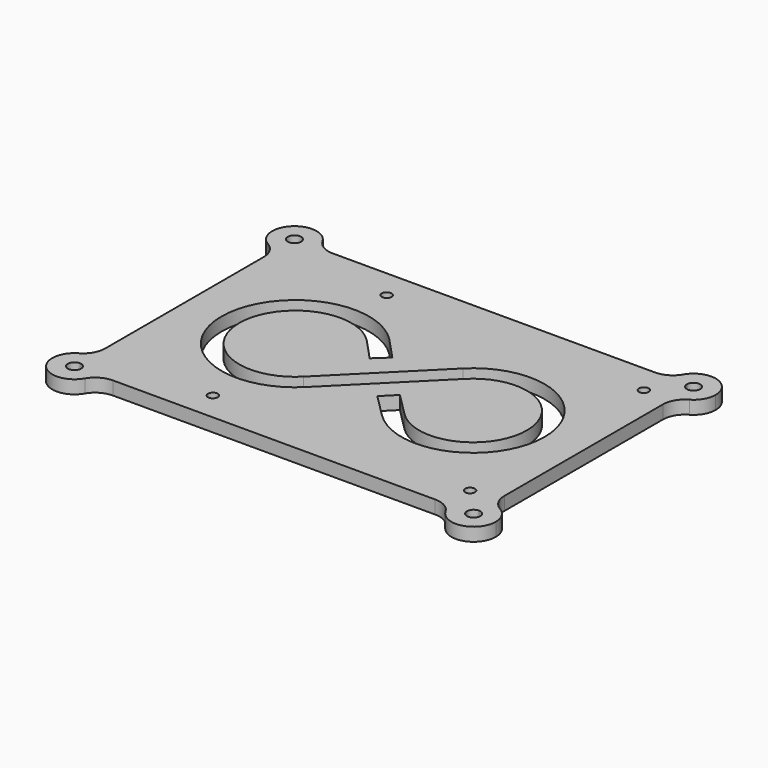
from build123d import *

# Parameters (mm, degrees)
F1_DEPTH = 3
F2_R     = 5
F4_D     = 2.2


with BuildPart() as f1:
    # F0 (on Top) → F1 (new body)
    with BuildSketch(Plane.XY):
        with BuildLine():
            ThreePointArc((-45, -26), (-48.5355339059, -34.5355339059), (-40, -31))
            Line((-40, -31), (-43.5, -31))
            ThreePointArc((-43.5, -31), (-46.0606601718, -32.0606601718), (-45, -29.5))
            Line((-45, -29.5), (-45, -26))
        make_face()
        with BuildLine():
            ThreePointArc((-45, -26), (-41.4644660941, -27.4644660941), (-40, -31))
            Line((-40, -31), (40, -31))
            ThreePointArc((40, -31), (41.4644660941, -27.4644660941), (45, -26))
            Line((45, -26), (45, 26))
            ThreePointArc((45, 26), (41.4644660941, 27.4644660941), (40, 31))
            Line((40, 31), (-40, 31))
            ThreePointArc((-40, 31), (-41.4644660941, 27.4644660941), (-45, 26))
            Line((-45, 26), (-45, -26))
        make_face()
        with BuildLine():
            Line((-11.0606601718, -8.9393398282), (8.9393398282, 11.0606601718))
            ThreePointArc((8.9393398282, 11.0606601718), (36.4956890143, -0.3535533906), (8.9393398282, -11.767766953))
            Line((8.9393398282, -11.767766953), (3.7625631329, -6.5909902577))
            Line((3.7625631329, -6.5909902577), (5.1767766953, -5.1767766953))
            Line((5.1767766953, -5.1767766953), (6.5909902577, -3.7625631329))
            Line((6.5909902577, -3.7625631329), (11.767766953, -8.9393398282))
            ThreePointArc((11.767766953, -8.9393398282), (32.4956890143, -0.3535533906), (11.767766953, 8.232233047))
            Line((11.767766953, 8.232233047), (-8.232233047, -11.767766953))
            ThreePointArc((-8.232233047, -11.767766953), (-36.6421356237, 0), (-8.232233047, 11.767766953))
            ThreePointArc((-8.232233047, 11.767766953), (-8.2074655375, 11.7425578811), (-8.1831473235, 11.716915118))
            Line((-8.1831473235, 11.716915118), (-3.3599240188, 6.5401384227))
            Line((-3.3599240188, 6.5401384227), (-4.8232233047, 5.1767766953))
            Line((-4.8232233047, 5.1767766953), (-6.2865225906, 3.8134149679))
            Line((-6.2865225906, 3.8134149679), (-11.0847678218, 8.9633826393))
            ThreePointArc((-11.0847678218, 8.9633826393), (-32.6421241617, -0.0170237742), (-11.0606601718, -8.9393398282))
        make_face(mode=Mode.SUBTRACT)
        with BuildLine():
            Line((-43.5, -31), (-40, -31))
            ThreePointArc((-40, -31), (-41.4644660941, -27.4644660941), (-45, -26))
            Line((-45, -26), (-45, -29.5))
            ThreePointArc((-45, -29.5), (-43.9393398282, -29.9393398282), (-43.5, -31))
        make_face()
        with BuildLine():
            ThreePointArc((45, -26), (41.4644660941, -27.4644660941), (40, -31))
            Line((40, -31), (43.5, -31))
            ThreePointArc((43.5, -31), (43.9393398282, -29.9393398282), (45, -29.5))
            Line((45, -29.5), (45, -26))
        make_face()
        with BuildLine():
            Line((43.5, -31), (40, -31))
            ThreePointArc((40, -31), (45, -36), (50, -31))
            ThreePointArc((50, -31), (48.5355339059, -27.4644660941), (45, -26))
            Line((45, -26), (45, -29.5))
            ThreePointArc((45, -29.5), (46.0606601718, -29.9393398282), (46.5, -31))
            ThreePointArc((46.5, -31), (45, -32.5), (43.5, -31))
        make_face()
        with BuildLine():
            ThreePointArc((-40, 31), (-48.5355339059, 34.5355339059), (-45, 26))
            Line((-45, 26), (-45, 29.5))
            ThreePointArc((-45, 29.5), (-46.0606601718, 32.0606601718), (-43.5, 31))
            Line((-43.5, 31), (-40, 31))
        make_face()
        with BuildLine():
            Line((-45, 29.5), (-45, 26))
            ThreePointArc((-45, 26), (-41.4644660941, 27.4644660941), (-40, 31))
            Line((-40, 31), (-43.5, 31))
            ThreePointArc((-43.5, 31), (-43.9393398282, 29.9393398282), (-45, 29.5))
        make_face()
        with BuildLine():
            ThreePointArc((40, 31), (41.4644660941, 27.4644660941), (45, 26))
            Line((45, 26), (45, 29.5))
            ThreePointArc((45, 29.5), (43.9393398282, 29.9393398282), (43.5, 31))
            Line((43.5, 31), (40, 31))
        make_face()
        with BuildLine():
            Line((45, 29.5), (45, 26))
            ThreePointArc((45, 26), (48.5355339059, 27.4644660941), (50, 31))
            ThreePointArc((50, 31), (45, 36), (40, 31))
            Line((40, 31), (43.5, 31))
            ThreePointArc((43.5, 31), (45, 32.5), (46.5, 31))
            ThreePointArc((46.5, 31), (46.0606601718, 29.9393398282), (45, 29.5))
        make_face()
    extrude(amount=F1_DEPTH)

    # F2
    f2_edges = [f1.edges().sort_by_distance(p)[0] for p in [
        (-40, -31, 1.5),
        (45, 26, 1.5),
        (40, -31, 1.5),
        (-45, -26, 1.5),
        (-45, 26, 1.5),
        (-40, 31, 1.5),
        (40, 31, 1.5),
        (45, -26, 1.5),
    ]]
    fillet(f2_edges, radius=F2_R)

    # F4 (through all)
    with Locations(Plane.XY.offset(3)):
        with Locations((-19, 24.5), (39, 24.5), (39, -24.5), (-19, -24.5)):
            Hole(F4_D / 2)


solid = f1.part
